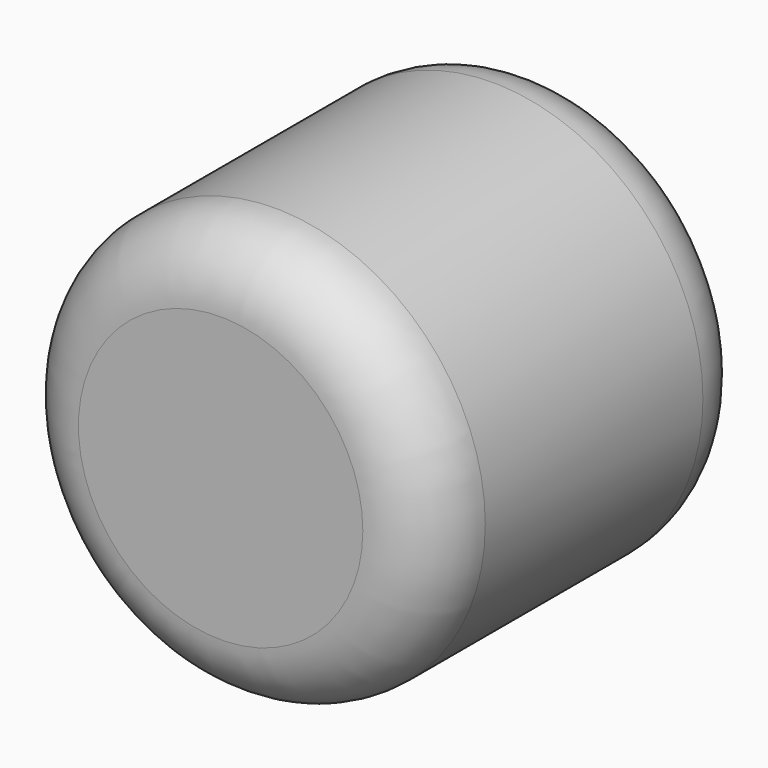
from build123d import *

# Parameters (mm, degrees)
F0_R     = 39.251491
F1_DEPTH = 76.2
F2_R     = 12.7


with BuildPart() as f1:
    # F0 (on Front) → F1 (new body)
    with BuildSketch(Plane.XZ):
        Circle(F0_R)
    extrude(amount=F1_DEPTH)

    # F2
    f2_edges = [f1.edges().sort_by_distance(p)[0] for p in [
        (39.251491, -38.1, 0),
        (-39.251491, 0, 0),
        (-39.251491, -76.2, 0),
    ]]
    fillet(f2_edges, radius=F2_R)


solid = f1.part
